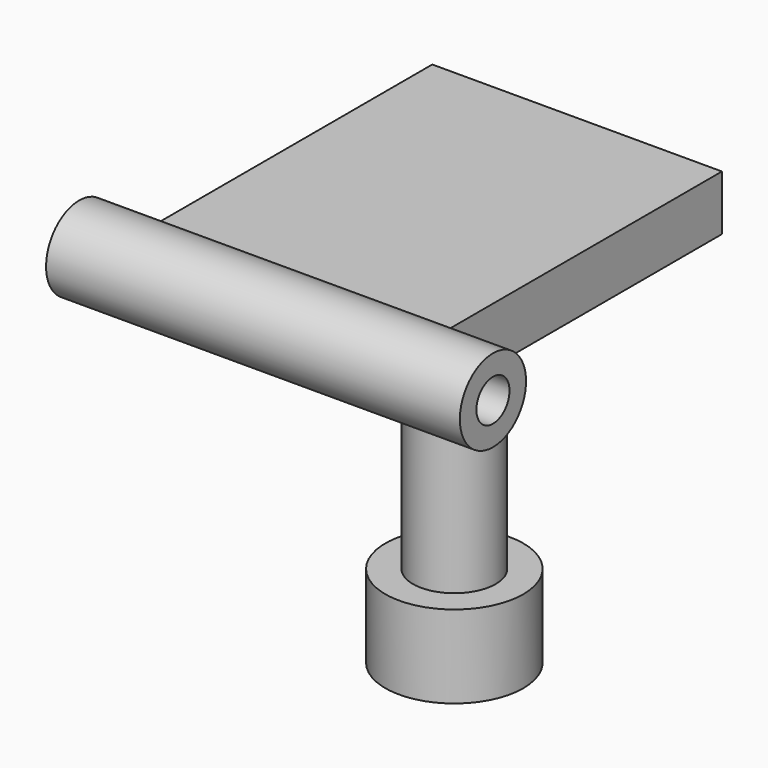
from build123d import *

# Parameters (mm, degrees)
CYLINDER031_R     = 3
CYLINDER031_DEPTH = 21
BOX006_W          = 21
BOX006_H          = 25
BOX006_DEPTH      = 4
CYLINDER026_R     = 1.5
CYLINDER026_DEPTH = 52
CYLINDER021_R     = 3
CYLINDER021_DEPTH = 30
CYLINDER032_R     = 5
CYLINDER032_DEPTH = 6


with BuildPart() as cylindre027:
    # Cylinder031 → Cylinder031 (new body)
    with BuildSketch(Plane(origin=(3, 19, -161), x_dir=(1, 0, 0), z_dir=(0, 0, 1))):
        Circle(CYLINDER031_R)
    extrude(amount=CYLINDER031_DEPTH)


with BuildPart() as cube006:
    # Box006 → Box006 (new body)
    with BuildSketch(Plane(origin=(-9, 7, -140), x_dir=(1, 0, 0), z_dir=(0, 0, 1))):
        with Locations((10.5, 12.5)):
            Rectangle(BOX006_W, BOX006_H)
    extrude(amount=BOX006_DEPTH)


with BuildPart() as cylindre022:
    # Cylinder026 → Cylinder026 (new body)
    with BuildSketch(Plane(origin=(-26, 6, -138), x_dir=(0, 0, -1), z_dir=(1, 0, 0))):
        Circle(CYLINDER026_R)
    extrude(amount=CYLINDER026_DEPTH)


with BuildPart() as fusion006:
    # Cylinder021 → Cylinder021 (new body)
    with BuildSketch(Plane(origin=(-13, 6, -138), x_dir=(0, 0, -1), z_dir=(1, 0, 0))):
        Circle(CYLINDER021_R)
    extrude(amount=CYLINDER021_DEPTH)

    # Cut019: cut Cylindre022
    add(cylindre022.part, mode=Mode.SUBTRACT)


with BuildPart() as fusion006_1:
    # Cut019 placement: moved
    add(fusion006.part.moved(Location((0, -1, 0))))

    # Fusion005: union Cube006
    add(cube006.part)

    # Fusion006: union Cylindre027
    add(cylindre027.part)


with BuildPart() as obj1:
    # Cylinder032 → Cylinder032 (new body)
    with BuildSketch(Plane(origin=(3, 19, -165), x_dir=(1, 0, 0), z_dir=(0, 0, 1))):
        Circle(CYLINDER032_R)
    extrude(amount=CYLINDER032_DEPTH)

    # Fusion007: union Fusion006
    add(fusion006_1.part)


with BuildPart() as obj1_1:
    # Fusion007 placement: moved
    add(obj1.part.moved(Location((-2.5, 0, 0))))


solid = obj1_1.part
